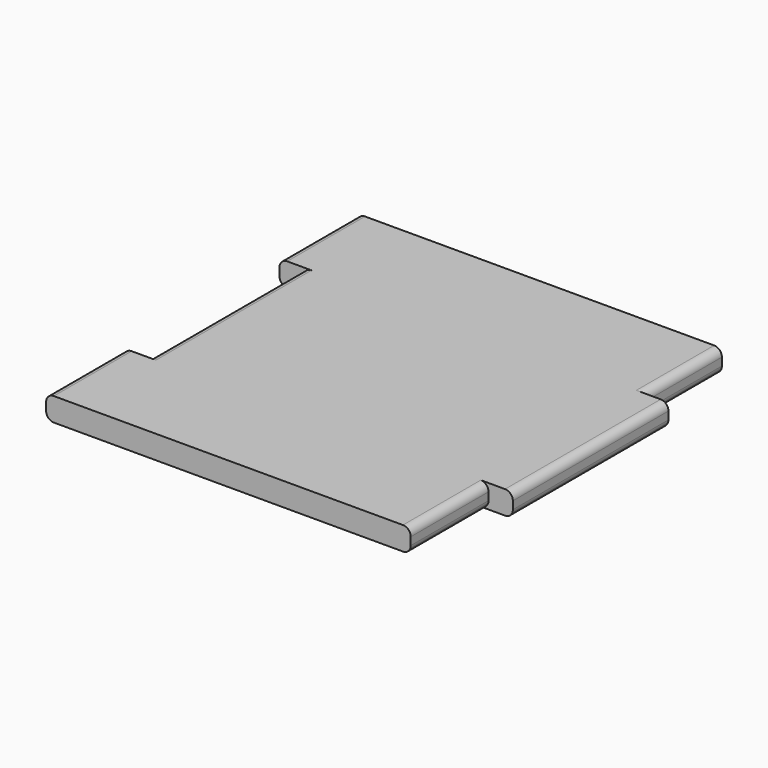
from build123d import *

# Parameters (mm, degrees)
F0_W     = 101.6
F0_H     = 6.096
F1_DEPTH = 101.6
F2_W     = 6.35
F2_H     = 50.8
F2_H_2   = 25.4
F3_DEPTH = 25.4
F4_R     = 2.032


with BuildPart() as f1:
    # F0 (on Front) → F1 (new body)
    with BuildSketch(Plane.XZ):
        with Locations((2.470545, 16.174641)):
            Rectangle(F0_W, F0_H)
    extrude(amount=F1_DEPTH)

    # F2 (on face) → F3 (cut)
    with BuildSketch(Plane.XY.offset(19.222641)):
        with Locations((-45.154455, -50.8)):
            Rectangle(F2_W, F2_H)
        with Locations((50.095545, -12.7)):
            Rectangle(F2_W, F2_H_2)
        with Locations((50.095545, -88.9)):
            Rectangle(F2_W, F2_H_2)
    extrude(amount=-F3_DEPTH, mode=Mode.SUBTRACT)

    # F4
    f4_edges = [f1.edges().sort_by_distance(p)[0] for p in [
        (53.270545, -50.8, 19.222641),
        (46.920545, -88.9, 19.222641),
        (46.920545, -12.7, 19.222641),
        (53.270545, -50.8, 13.126641),
        (46.920545, -12.7, 13.126641),
        (46.920545, -88.9, 13.126641),
        (-41.979455, -50.8, 19.222641),
        (-48.329455, -12.7, 19.222641),
        (-48.329455, -88.9, 19.222641),
        (-41.979455, -50.8, 13.126641),
        (-48.329455, -12.7, 13.126641),
        (-48.329455, -88.9, 13.126641),
    ]]
    fillet(f4_edges, radius=F4_R)


solid = f1.part
